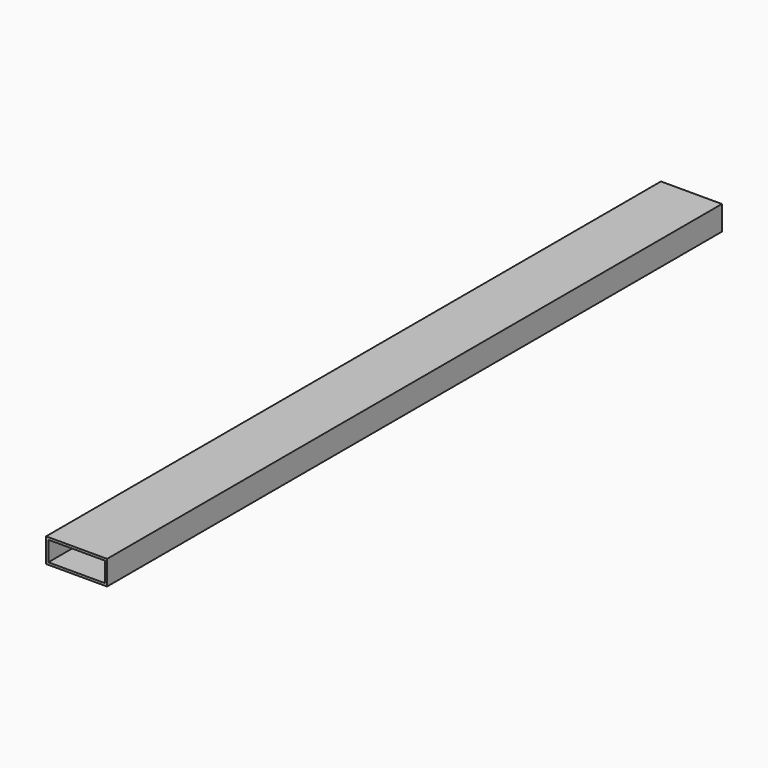
from build123d import *

# Parameters (mm, degrees)
F0_W     = 127
F0_H     = 1600.2
F1_DEPTH = 50.8
F2_T     = -4.7625


with BuildPart() as f1:
    # F0 (on Top) → F1 (new body)
    with BuildSketch(Plane.XY):
        Rectangle(F0_W, F0_H)
    extrude(amount=F1_DEPTH)

    # F2
    f2_openings = [f1.faces().sort_by_distance(p)[0] for p in [
        (0, -800.1, 25.4),
        (0, 800.1, 25.4),
    ]]
    offset(amount=F2_T, openings=f2_openings)


solid = f1.part
